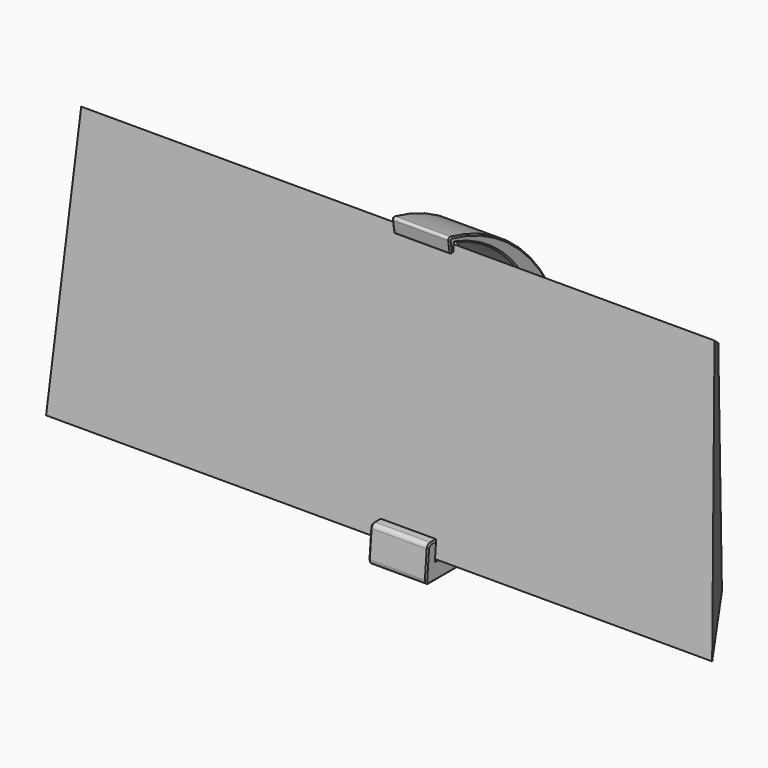
from build123d import *

# Parameters (mm, degrees)
PAD_DEPTH       = 150
POCKET_DEPTH    = 773.122462
PAD002_DEPTH    = 26
CHAMFER001_SIZE = 0.6
SKETCH008_R     = 2.25
POCKET003_DEPTH = 80.518292
SKETCH009_R     = 4.25
POCKET004_DEPTH = 5


with BuildPart() as obj1:
    # Sketch → Pad (new body, symmetric)
    with BuildSketch(Plane.YZ):
        Polygon((-22, 0), (22, 0), (5.551112, 108.763202), (-11.454155, 120.539558), align=None)
    extrude(amount=PAD_DEPTH, both=True)

    # Sketch001 → Pocket (cut, through all)
    with BuildSketch(Plane.XY):
        Polygon((150, -22), (150, 38), (107.987548, 38), align=None)
    pocket = extrude(amount=POCKET_DEPTH, mode=Mode.SUBTRACT)

    # Mirrored: Pocket across Sketch001 V_Axis
    add(pocket.mirror(Plane(origin=(0, 0, 0), x_dir=(0, 0, 1), z_dir=(1, 0, 0))), mode=Mode.SUBTRACT)


with BuildPart() as router_mount:
    # Sketch007 → Pad002 (new body)
    with BuildSketch(Plane.YZ):
        with BuildLine():
            ThreePointArc((21.303717, 7.910051), (35.224788, 73.628635), (-11.866999, 121.535753))
            Line((-11.866999, 121.535753), (-12.129465, 118.535753))
            ThreePointArc((-14.114234, 118.472171), (-13.093641, 117.623422), (-12.129465, 118.535753))
            Line((-14.114234, 118.472171), (-14.866999, 123.408979))
            ThreePointArc((-13.660818, 124.535753), (-14.561069, 124.290468), (-14.866999, 123.408979))
            ThreePointArc((52.5, 42), (33.918201, 94.889991), (-13.660818, 124.535753))
            Line((52.5, -8), (52.5, 42))
            Line((-26.017292, -8), (52.5, -8))
            ThreePointArc((-28.009682, -5.825689), (-27.491847, -7.35118), (-26.017292, -8))
            Line((-26.967687, 6.084363), (-28.009682, -5.825689))
            ThreePointArc((-24.975298, 7.910051), (-26.326478, 7.384606), (-26.967687, 6.084363))
            Line((-21.80796, 7.910051), (-24.975298, 7.910051))
            Line((-21.80796, 7.910051), (-22.5, 0))
            Line((-22.5, 0), (22.5, 0))
            Line((22.5, 0), (21.303717, 7.910051))
        make_face()
    extrude(amount=PAD002_DEPTH)

    # Chamfer001
    chamfer001_edges = [router_mount.edges().sort_by_distance(p)[0] for p in [
        (26, -22.15398, 3.955026),
        (26, 0, 0),
        (26, 21.901859, 3.955026),
        (26, 35.224788, 73.628635),
        (26, -11.998232, 120.035753),
        (26, -13.093641, 117.623422),
        (26, -14.490617, 120.940575),
        (26, -14.561069, 124.290468),
        (26, 33.918201, 94.889991),
        (26, 52.5, 17),
        (26, 13.241354, -8),
        (26, -27.491847, -7.35118),
        (26, -27.488684, 0.129337),
        (26, -26.326478, 7.384606),
        (26, -23.391629, 7.910051),
        (0, -22.15398, 3.955026),
        (0, 0, 0),
        (0, 21.901859, 3.955026),
        (0, 35.224788, 73.628635),
        (0, -11.998232, 120.035753),
        (0, -13.093641, 117.623422),
        (0, -14.490617, 120.940575),
        (0, -14.561069, 124.290468),
        (0, 33.918201, 94.889991),
        (0, 52.5, 17),
        (0, 13.241354, -8),
        (0, -27.491847, -7.35118),
        (0, -27.488684, 0.129337),
        (0, -26.326478, 7.384606),
        (0, -23.391629, 7.910051),
    ]]
    chamfer(chamfer001_edges, length=CHAMFER001_SIZE)

    # Sketch008 (on Face44 of Chamfer001) → Pocket003 (cut, through all)
    with BuildSketch(Plane.ZX.offset(52.5)):
        with Locations((37.365689, 13.3)):
            Circle(SKETCH008_R)
        with Locations((12.365689, 13.3)):
            Circle(SKETCH008_R)
    extrude(amount=-POCKET003_DEPTH, mode=Mode.SUBTRACT)

    # Sketch009 (on Face44 of Pocket003) → Pocket004 (cut)
    with BuildSketch(Plane.ZX.offset(46.5)):
        with Locations((12.365689, 13.3)):
            Circle(SKETCH009_R)
        with Locations((37.365689, 13.3)):
            Circle(SKETCH009_R)
    extrude(amount=-POCKET004_DEPTH, mode=Mode.SUBTRACT)


solid = Compound([obj1.part, router_mount.part])
